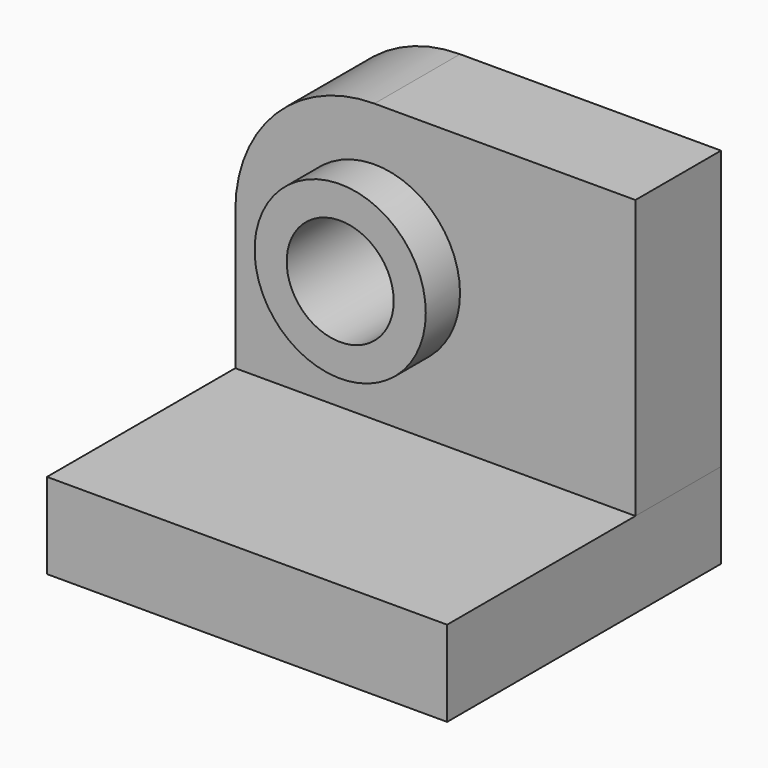
from build123d import *

# Parameters (mm, degrees)
F0_R     = 2.5
F1_DEPTH = 5
F2_R     = 4
F2_R_2   = 2.5
F3_DEPTH = 2
F4_W     = 18.7
F4_H     = 16
F5_DEPTH = 4


with BuildPart() as f1:
    # F0 (on Front) → F1 (new body)
    with BuildSketch(Plane.XZ):
        with BuildLine():
            Line((-12.197495, 0), (0, 0))
            Line((0, 0), (0, 13))
            Line((0, 13), (-12.197495, 13))
            ThreePointArc((-12.197495, 13), (-16.793689, 11.096194), (-18.697495, 6.5))
            Line((-18.697495, 6.5), (-18.697495, 0))
            Line((-18.697495, 0), (-12.197495, 0))
        make_face()
        with Locations((-12.197495, 6.5)):
            Circle(F0_R, mode=Mode.SUBTRACT)
    extrude(amount=F1_DEPTH)

    # F2 (on face) → F3 (join)
    with BuildSketch(Plane.XZ.offset(5)):
        with Locations((-12.197495, 6.5)):
            Circle(F2_R)
        with Locations((-12.197495, 6.5)):
            Circle(F2_R_2, mode=Mode.SUBTRACT)
    extrude(amount=F3_DEPTH)


with BuildPart() as f5:
    # F4 (on Top) → F5 (new body)
    with BuildSketch(Plane.XY):
        with Locations((-9.35, -8)):
            Rectangle(F4_W, F4_H)
    extrude(amount=-F5_DEPTH)


solid = Compound([f1.part, f5.part])
